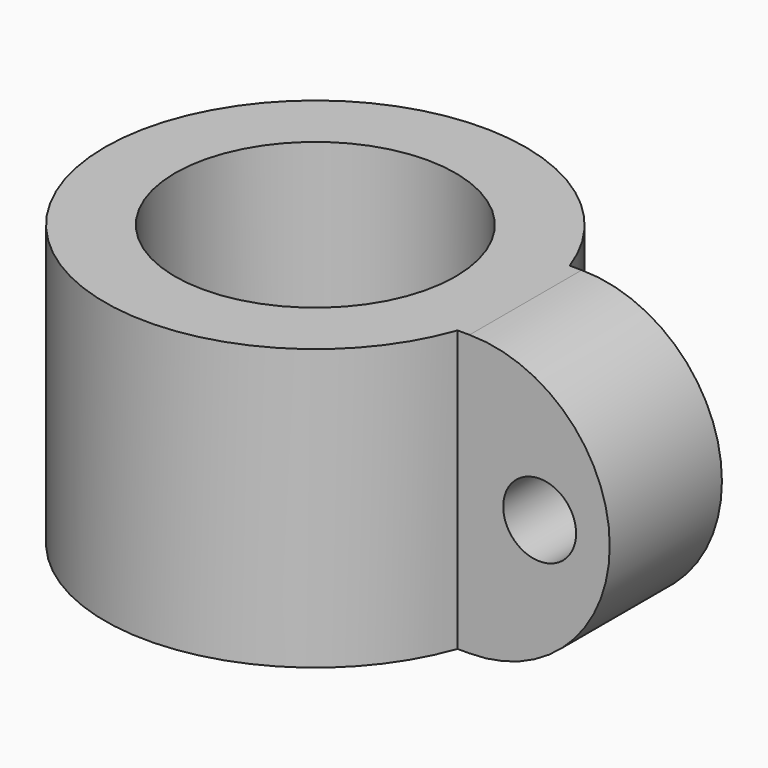
from build123d import *

# Parameters (mm, degrees)
F0_W          = 6.35
F0_H          = 25.4
F3_W          = 6.35
F3_H          = 25.4
F3_R          = 3.301997
F4_DEPTH      = 6.35
F4_DEPTH_BACK = 6.35


with BuildPart() as f2:
    # F0 (on Front) → F2 (revolve)
    with BuildSketch(Plane.XZ):
        with Locations((-15.875, 12.7)):
            Rectangle(F0_W, F0_H)
    revolve(axis=Axis((0, 0, 24.002999), (0, 0, 1)))

    # F3 (on Front) → F4 (join, two sides)
    with BuildSketch(Plane.XZ) as f4_sk:
        with Locations((15.875, 12.7)):
            Rectangle(F3_W, F3_H)
        with BuildLine():
            ThreePointArc((19.05, 0), (31.75, 12.7), (19.05, 25.4))
            Line((19.05, 25.4), (19.05, 0))
        make_face()
        with Locations((25.4, 12.7)):
            Circle(F3_R, mode=Mode.SUBTRACT)
    extrude(amount=F4_DEPTH)
    extrude(f4_sk.sketch, amount=-F4_DEPTH_BACK)


solid = f2.part
